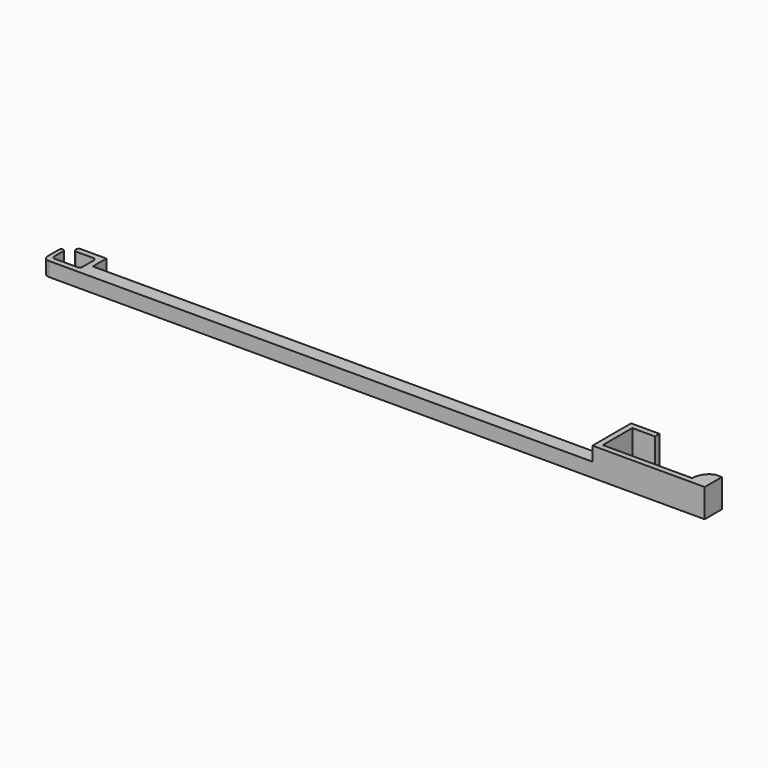
from build123d import *

# Parameters (mm, degrees)
PAD_DEPTH    = 5
SKETCH002_W  = 180
SKETCH002_H  = 5
PAD002_DEPTH = 5
PAD003_DEPTH = 10


with BuildPart() as part:
    # Sketch → Pad (new body)
    with BuildSketch(Plane.XY):
        with BuildLine():
            Line((0, 0), (-11.5, 0))
            ThreePointArc((-13.5, 2), (-12.914214, 0.585786), (-11.5, 0))
            Line((-13.5, 2), (-13.5, 7))
            ThreePointArc((-12, 7), (-12.75, 7.75), (-13.5, 7))
            Line((-12, 7), (-12, 3))
            ThreePointArc((-12, 3), (-11.707107, 2.292893), (-11, 2))
            Line((-11, 2), (-3, 2))
            ThreePointArc((-3, 2), (-2.292893, 2.292893), (-2, 3))
            Line((-2, 8), (-2, 3))
            ThreePointArc((-2, 8), (-2.292893, 8.707107), (-3, 9))
            Line((-3, 9), (-9, 9))
            ThreePointArc((-9, 11), (-10, 10), (-9, 9))
            Line((0, 11), (-9, 11))
            Line((0, 11), (0, 0))
        make_face()
    extrude(amount=PAD_DEPTH)

    # Sketch002 → Pad002 (join)
    with BuildSketch(Plane.XY):
        with Locations((90, 2.5)):
            Rectangle(SKETCH002_W, SKETCH002_H)
    extrude(amount=PAD002_DEPTH)

    # Sketch001 → Pad003 (join)
    with BuildSketch(Plane(origin=(180, 0, 0), x_dir=(-1, 0, 0), z_dir=(0, 0, -1))):
        with BuildLine():
            Line((0, 0), (-39.499167, 0))
            Line((-39.499167, 0), (-39.499167, 2.1))
            Line((-39.499167, 2.1), (-39.499167, 7.6))
            Line((-39.499167, 7.6), (-37.101251, 7.6))
            ThreePointArc((-33.5, 2), (-34.452609, 5.345343), (-37.101251, 7.6))
            Line((-33.5, 2), (-2, 2))
            Line((-2, 2), (-2, 15))
            Line((-2, 15), (-10, 15))
            Line((-10, 15), (-10, 17))
            Line((-10, 17), (0, 17))
            Line((0, 17), (0, 0))
        make_face()
    extrude(amount=-PAD003_DEPTH)


solid = part.part
